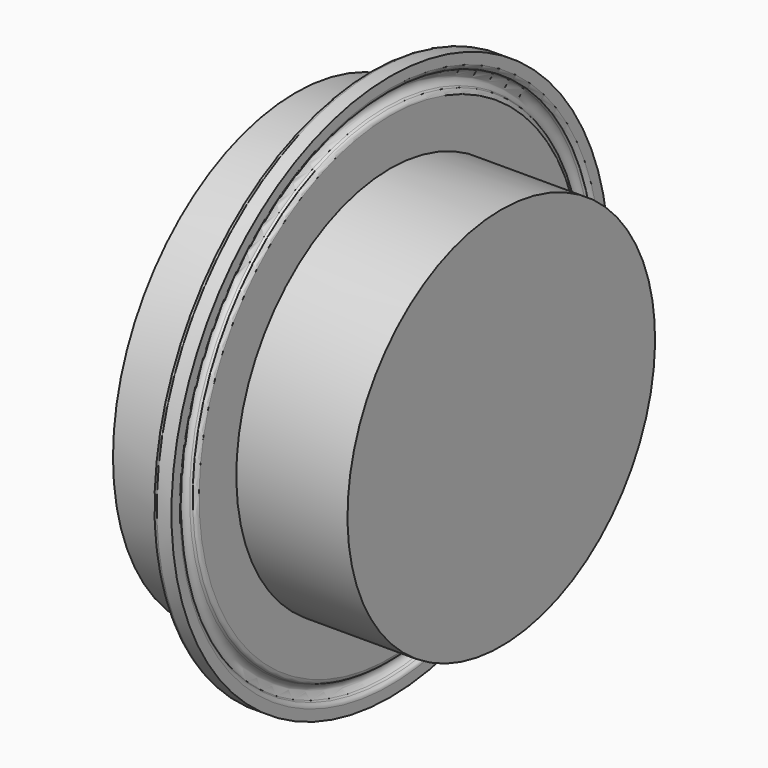
from build123d import *

# Parameters (mm, degrees)
F3_R     = 32
F4_DEPTH = 5


with BuildPart() as f2:
    # F1 (on Front) → F2 (revolve)
    with BuildSketch(Plane.XZ):
        with BuildLine():
            Line((0, 43.752931), (0, 45.5))
            Line((0, 45.5), (-2.439834, 45.5))
            ThreePointArc((-2.439834, 45.5), (-2.898695, 45.355322), (-3.191588, 44.973616))
            Line((-3.191588, 44.973616), (-5.729777, 38))
            Line((-5.729777, 38), (-15.729777, 38))
            Line((-15.729777, 38), (-15.729777, 0))
            Line((-15.729777, 0), (23.5, 0))
            Line((23.5, 0), (23.5, 32))
            Line((23.5, 32), (0, 32))
            Line((0, 32), (0, 39.747069))
            ThreePointArc((0, 39.747069), (-0.132891, 40.188619), (-0.487415, 40.483473))
            Line((-0.487415, 40.483473), (-0.868877, 40.645394))
            ThreePointArc((-0.868877, 40.645394), (-1.6, 41.75), (-0.868877, 42.854606))
            Line((-0.868877, 42.854606), (-0.487415, 43.016527))
            ThreePointArc((-0.487415, 43.016527), (-0.132891, 43.311381), (0, 43.752931))
        make_face()
    revolve(axis=Axis((-0.354707, 0, 0), (1, 0, 0)))

    # F3 (on face) → F4 (cut)
    with BuildSketch(Plane.YZ.offset(23.5)):
        Circle(F3_R)
    extrude(amount=-F4_DEPTH, mode=Mode.SUBTRACT)


solid = f2.part
